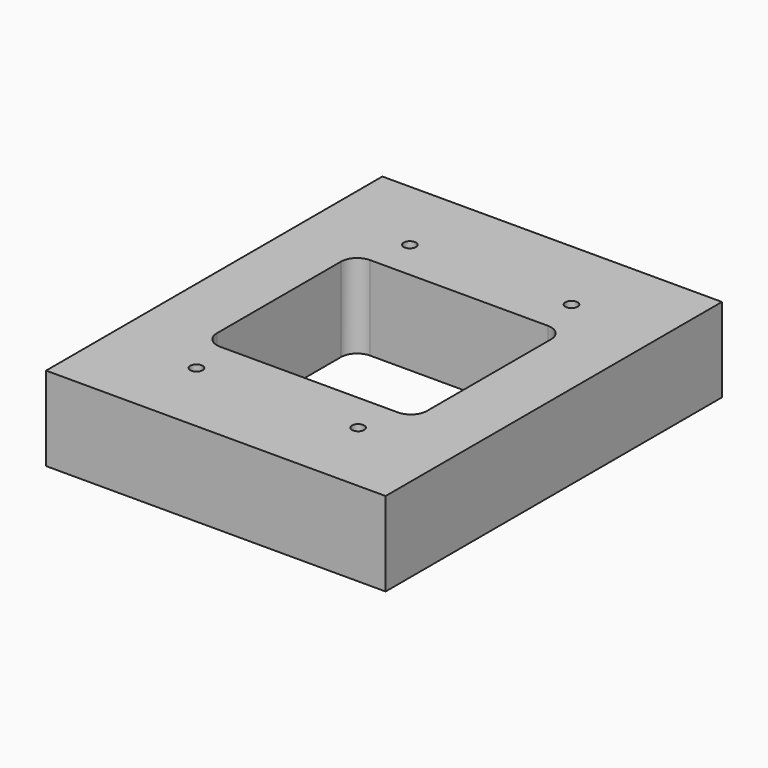
from build123d import *

# Parameters (mm, degrees)
F0_W      = 133.35
F0_H      = 165.1
F1_DEPTH  = 33.02
F2_W      = 82.55
F2_H      = 73.66
F3_DEPTH  = 33.021
F4_R      = 6.35
F6_D      = 4.826
F7_R      = 7.9375
F7_R_2    = 2.413
F8_DEPTH  = 22.86
F10_D     = 3.175
F10_DEPTH = 12.7
F10_TIP   = 0.9538662327


with BuildPart() as f1:
    # F0 (on Top) → F1 (new body)
    with BuildSketch(Plane.XY):
        Rectangle(F0_W, F0_H)
    extrude(amount=F1_DEPTH)

    # F2 (on face) → F3 (cut, through all)
    with BuildSketch(Plane.XY.offset(33.02)):
        Rectangle(F2_W, F2_H)
    extrude(amount=-F3_DEPTH, mode=Mode.SUBTRACT)

    # F4
    f4_edges = [f1.edges().sort_by_distance(p)[0] for p in [
        (-41.275, 36.83, 16.51),
        (-41.275, -36.83, 16.51),
        (41.275, -36.83, 16.51),
        (41.275, 36.83, 16.51),
    ]]
    fillet(f4_edges, radius=F4_R)

    # F6 (through all)
    with Locations(Plane.XY.offset(33.02)):
        with Locations((-31.75, 52.3875), (31.75, 52.3875), (31.75, -52.3875), (-31.75, -52.3875)):
            Hole(F6_D / 2)

    # F7 (on face) → F8 (cut)
    with BuildSketch(Plane(origin=(0, 0, 0), x_dir=(1, 0, 0), z_dir=(0, 0, -1))):
        with Locations((-31.75, 52.3875)):
            Circle(F7_R)
        with Locations((-31.75, 52.3875)):
            Circle(F7_R_2, mode=Mode.SUBTRACT)
        with Locations((31.75, 52.3875)):
            Circle(F7_R)
        with Locations((31.75, 52.3875)):
            Circle(F7_R_2, mode=Mode.SUBTRACT)
        with Locations((31.75, -52.3875)):
            Circle(F7_R)
        with Locations((31.75, -52.3875)):
            Circle(F7_R_2, mode=Mode.SUBTRACT)
        with Locations((-31.75, -52.3875)):
            Circle(F7_R)
        with Locations((-31.75, -52.3875)):
            Circle(F7_R_2, mode=Mode.SUBTRACT)
    extrude(amount=-F8_DEPTH, mode=Mode.SUBTRACT)

    # F10
    with Locations(Plane(origin=(0, 0, 0), x_dir=(1, 0, 0), z_dir=(0, 0, -1))):
        with Locations((-60.96, 76.835), (60.96, 76.835), (60.96, -76.835), (-60.96, -76.835)):
            Hole(F10_D / 2, depth=F10_DEPTH)
            with Locations((0, 0, -(F10_DEPTH + F10_TIP / 2))):  # 118° drill point
                Cone(0, F10_D / 2, F10_TIP, mode=Mode.SUBTRACT)


solid = f1.part
